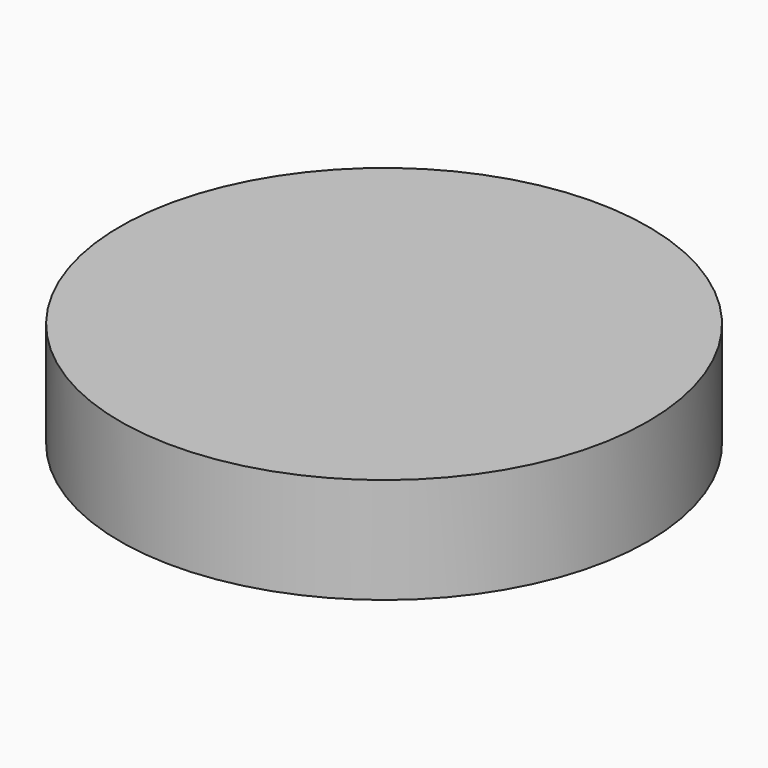
from build123d import *

# Parameters (mm, degrees)
F0_R     = 10
F1_DEPTH = 0.5
F2_DEPTH = 3
F3_R     = 10
F3_R_2   = 3
F4_DEPTH = 0.5
F5_R     = 10
F6_DEPTH = 0.5


with BuildPart() as f1:
    # F0 (on Top) → F1 (new body)
    with BuildSketch(Plane.XY):
        Circle(F0_R)
        with BuildLine():
            ThreePointArc((0, 3), (2.1213203436, 2.1213203436), (3, 0))
            ThreePointArc((3, 0), (2.1213203436, -2.1213203436), (0, -3))
            Line((0, -3), (-6, -3))
            ThreePointArc((-6, -3), (-9, 0), (-6, 3))
            Line((-6, 3), (0, 3))
        make_face(mode=Mode.SUBTRACT)
        with BuildLine():
            ThreePointArc((-6, -3), (-3.8786796564, -2.1213203436), (-3, 0))
            ThreePointArc((-3, 0), (-3.8786796564, 2.1213203436), (-6, 3))
            ThreePointArc((-6, 3), (-9, 0), (-6, -3))
        make_face()
        with BuildLine():
            ThreePointArc((-3, 0), (-2.1213203436, 2.1213203436), (0, 3))
            Line((0, 3), (-6, 3))
            ThreePointArc((-6, 3), (-3.8786796564, 2.1213203436), (-3, 0))
        make_face()
        with BuildLine():
            Line((-6, -3), (0, -3))
            ThreePointArc((0, -3), (-2.1213203436, -2.1213203436), (-3, 0))
            ThreePointArc((-3, 0), (-3.8786796564, -2.1213203436), (-6, -3))
        make_face()
        with BuildLine():
            ThreePointArc((0, -3), (2.1213203436, -2.1213203436), (3, 0))
            ThreePointArc((3, 0), (2.1213203436, 2.1213203436), (0, 3))
            ThreePointArc((0, 3), (-2.1213203436, 2.1213203436), (-3, 0))
            ThreePointArc((-3, 0), (-2.1213203436, -2.1213203436), (0, -3))
        make_face()
    extrude(amount=F1_DEPTH)

    # F0 (on Top) → F2 (join)
    with BuildSketch(Plane.XY):
        Circle(F0_R)
        with BuildLine():
            ThreePointArc((0, 3), (2.1213203436, 2.1213203436), (3, 0))
            ThreePointArc((3, 0), (2.1213203436, -2.1213203436), (0, -3))
            Line((0, -3), (-6, -3))
            ThreePointArc((-6, -3), (-9, 0), (-6, 3))
            Line((-6, 3), (0, 3))
        make_face(mode=Mode.SUBTRACT)
    extrude(amount=F2_DEPTH)

    # F3 (on face) → F4 (join)
    with BuildSketch(Plane.XY.offset(3)):
        Circle(F3_R)
        with Locations((-6, 0)):
            Circle(F3_R_2, mode=Mode.SUBTRACT)
    extrude(amount=F4_DEPTH)

    # F5 (on face) → F6 (join)
    with BuildSketch(Plane.XY.offset(3.5)):
        Circle(F5_R)
    extrude(amount=F6_DEPTH)


solid = f1.part
